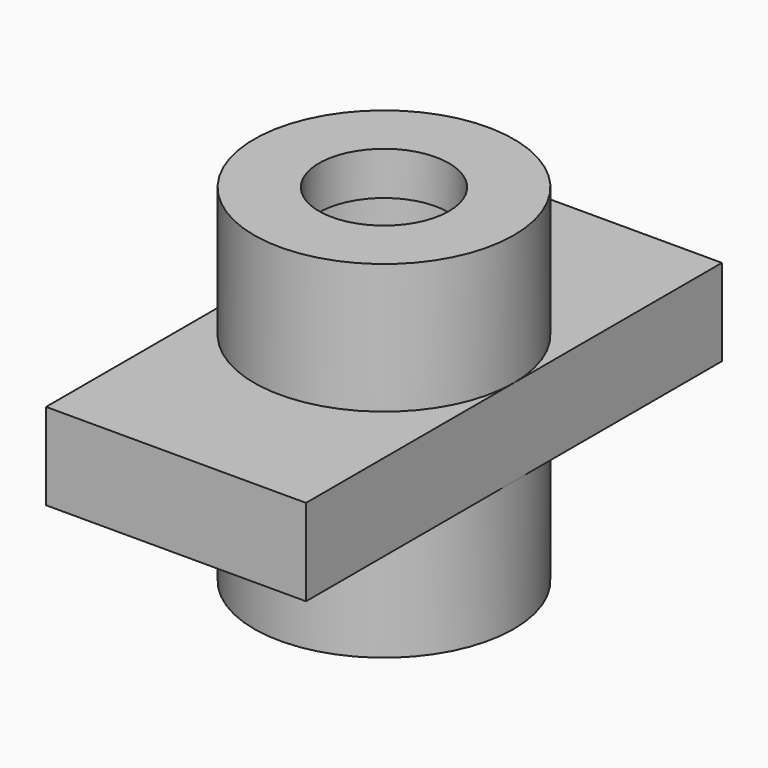
from build123d import *

# Parameters (mm, degrees)
F0_R          = 19.05
F0_R_2        = 9.525
F1_DEPTH      = 38.1
F2_R          = 19.05
F2_R_2        = 12.7
F3_DEPTH      = 6.35
F4_R          = 19.05
F4_R_2        = 9.525
F5_DEPTH      = 6.35
F6_W          = 76.2
F6_H          = 12.7
F7_DEPTH      = 19.05
F8_DEPTH      = 31.751
F8_DEPTH_BACK = 19.051


with BuildPart() as f1:
    # F0 (on Top) → F1 (new body)
    with BuildSketch(Plane.XY):
        Circle(F0_R)
        Circle(F0_R_2, mode=Mode.SUBTRACT)
    extrude(amount=F1_DEPTH)

    # F2 (on face) → F3 (join)
    with BuildSketch(Plane.XY.offset(38.1)):
        Circle(F2_R)
        Circle(F2_R_2, mode=Mode.SUBTRACT)
    extrude(amount=F3_DEPTH)

    # F4 (on face) → F5 (join)
    with BuildSketch(Plane.XY.offset(44.45)):
        Circle(F4_R)
        Circle(F4_R_2, mode=Mode.SUBTRACT)
    extrude(amount=F5_DEPTH)

    # F6 (on Right) → F7 (join, symmetric)
    with BuildSketch(Plane.YZ):
        with Locations((0, 25.4)):
            Rectangle(F6_W, F6_H)
    extrude(amount=F7_DEPTH, both=True)

    # F8 (cut, two sides): a face of the model
    f8_faces = [f1.faces().sort_by_distance(p)[0] for p in [
        (0, 0, 31.75),
    ]]
    extrude(f8_faces, amount=-F8_DEPTH, mode=Mode.SUBTRACT)
    extrude(f8_faces, amount=F8_DEPTH_BACK, mode=Mode.SUBTRACT)


solid = f1.part
